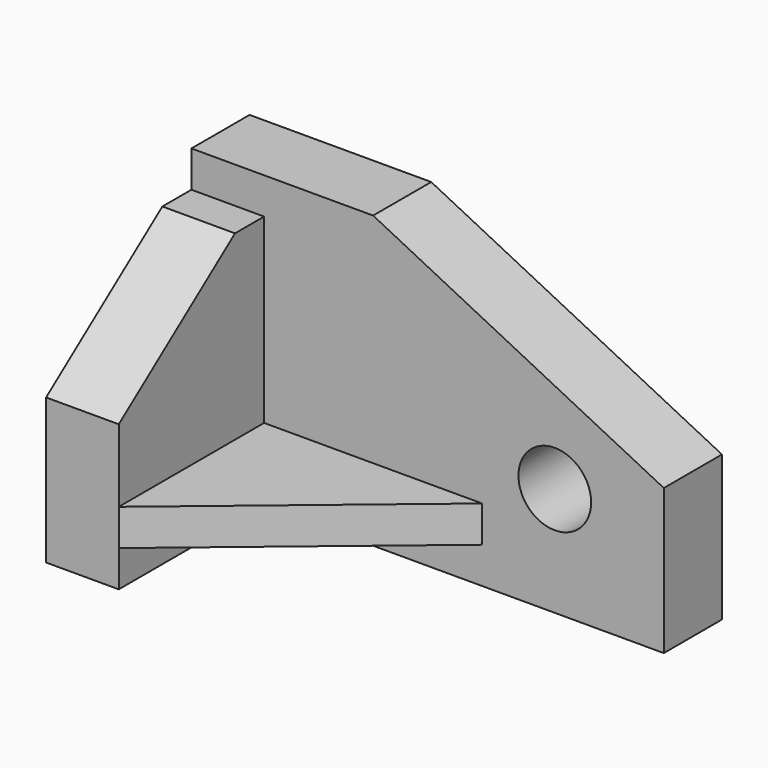
from build123d import *

# Parameters (mm, degrees)
F0_W     = 76.2
F0_H     = 12.7
F0_W_2   = 25.4
F0_H_2   = 38.1
F1_DEPTH = 88.9
F0_R     = 12.7
F2_DEPTH = 25.4
F4_DEPTH = 25.4
F6_DEPTH = 25.4


with BuildPart() as f1:
    # F0 (on Front) → F1 (new body)
    with BuildSketch(Plane.XZ):
        with Locations((-19.05, -31.75)):
            Rectangle(F0_W, F0_H)
        Polygon((-82.55, -50.8), (-57.15, -50.8), (-57.15, -38.1), (-57.15, -25.4), (-57.15, 0), (-82.55, 0), align=None)
        with Locations((-69.85, 19.05)):
            Rectangle(F0_W_2, F0_H_2)
    extrude(amount=F1_DEPTH)

    # F0 (on Front) → F2 (join)
    with BuildSketch(Plane.XZ):
        Polygon((-82.55, -50.8), (-57.15, -50.8), (-57.15, -38.1), (-57.15, -25.4), (-57.15, 0), (-82.55, 0), align=None)
        Polygon((82.55, 0), (-19.05, 50.8), (-82.55, 50.8), (-82.55, 38.1), (-57.15, 38.1), (-57.15, 0), (-57.15, -25.4), (19.05, -25.4), (19.05, -38.1), (-57.15, -38.1), (-57.15, -50.8), (82.55, -50.8), align=None)
        with Locations((44.45, -12.7)):
            Circle(F0_R, mode=Mode.SUBTRACT)
    extrude(amount=F2_DEPTH)

    # F3 (on face) → F4 (cut)
    with BuildSketch(Plane.YZ.offset(-57.15)):
        Polygon((-88.9, 0), (-38.1, 38.1), (-88.9, 38.1), align=None)
    extrude(amount=-F4_DEPTH, mode=Mode.SUBTRACT)

    # F5 (on face) → F6 (cut)
    with BuildSketch(Plane.XY.offset(-25.4)):
        Polygon((19.05, -88.9), (19.05, -25.4), (-57.15, -88.9), align=None)
    extrude(amount=-F6_DEPTH, mode=Mode.SUBTRACT)


solid = f1.part
